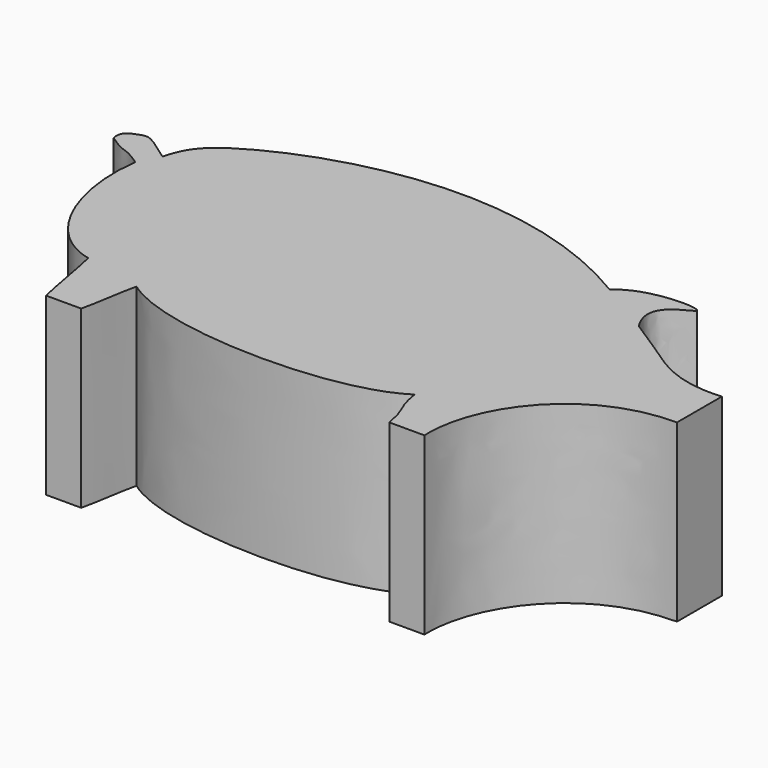
from build123d import *

# Parameters (mm, degrees)
F1_DEPTH = 25


with BuildPart() as f1:
    # F0 (on Top) → F1 (new body)
    with BuildSketch(Plane.XY):
        with BuildLine():
            add(Edge.make_bspline(
                [(14.1656817868, 27.306213975), (17.3286087811, 30.4327178746), (31.6137975279, 30.0063532795), (18.8594684005, 27.6065170765), (22.1804734319, 22.4600601941)],
                knots=[0, 0, 0, 0, 0.5479633402, 1, 1, 1, 1], degree=3))
            add(Edge.make_bspline(
                [(14.1656817868, 27.306213975), (-8.5522494737, 41.0188366673), (-39.7737865781, 30.0952229623), (-43.9671095669, 24.2991774614), (-44.7300113738, 21.2475694716)],
                knots=[0, 0, 0, 0, 0.7127719734, 1, 1, 1, 1], degree=3))
            add(Edge.make_bspline(
                [(-44.7300113738, 21.2475694716), (-48.86189571, 24.3265715696), (-49.0885533019, 24.0178126654), (-52.2380086043, 23.0147126637), (-51.7955087125, 21.3653277606)],
                knots=[0, 0, 0, 0, 0.5900294993, 1, 1, 1, 1], degree=3))
            add(Edge.make_bspline(
                [(-51.7955087125, 21.3653277606), (-48.5647395253, 19.0665111877), (-49.4916364551, 20.60242882), (-46.2608672678, 18.3036122471)],
                knots=[0, 0, 0, 0, 6.3250579291, 6.3250579291, 6.3250579291, 6.3250579291], degree=3))
            add(Edge.make_bspline(
                [(-46.2608672678, 18.3036122471), (-47.5562103093, 9.2362239957), (-43.4189804822, -1.28946384), (-35.9230783284, -3)],
                knots=[0, 0, 0, 0, 23.6793955779, 23.6793955779, 23.6793955779, 23.6793955779], degree=3))
            add(Edge.make_bspline(
                [(-33.9230783284, -13), (-34.668640544, -9.9556212891), (-35.1775161127, -6.0443787109), (-35.9230783284, -3)],
                knots=[0, 0, 0, 0, 10.1980390272, 10.1980390272, 10.1980390272, 10.1980390272], degree=3))
            Line((-33.9230783284, -13), (-28.9230783284, -13))
            add(Edge.make_bspline(
                [(-27.4230783284, -5), (-28.1065101524, -7.9201183158), (-28.2396465043, -10.0798816842), (-28.9230783284, -13)],
                knots=[0, 0, 0, 0, 8.139410298, 8.139410298, 8.139410298, 8.139410298], degree=3))
            add(Edge.make_bspline(
                [(13, -6), (4.6391610168, -11.534639582), (-19.6510312557, -10.8879149146), (-27.4230783284, -5)],
                knots=[0, 0, 0, 0, 40.4354456083, 40.4354456083, 40.4354456083, 40.4354456083], degree=3))
            add(Edge.make_bspline(
                [(15, -13), (14.2919536982, -8.9771856461), (13.6755976176, -10.1018498154), (13, -6)],
                knots=[0, 0, 0, 0, 7.2801098893, 7.2801098893, 7.2801098893, 7.2801098893], degree=3))
            Line((15, -13), (20, -13))
            add(Edge.make_bspline(
                [(40, 7), (26.9847903401, 6.9988165051), (19.5660162717, -4.1882214136), (20, -13)],
                knots=[0, 0, 0, 0, 28.2842712475, 28.2842712475, 28.2842712475, 28.2842712475], degree=3))
            Line((40, 7), (40, 15))
            add(Edge.make_bspline(
                [(22.1804734319, 22.4600601941), (27.4946360239, 19.1590298385), (30.5225928081, 16.3522606442), (36.3506581023, 14.6711683593), (40, 15)],
                knots=[0, 0, 0, 0, 0.5310169422, 1, 1, 1, 1], degree=3))
        make_face()
        with BuildLine():
            add(Edge.make_bspline(
                [(14.1656817868, 27.306213975), (17.3286087811, 30.4327178746), (31.6137975279, 30.0063532795), (18.8594684005, 27.6065170765), (22.1804734319, 22.4600601941)],
                knots=[0, 0, 0, 0, 0.5479633402, 1, 1, 1, 1], degree=3))
            add(Edge.make_bspline(
                [(14.1656817868, 27.306213975), (-8.5522494737, 41.0188366673), (-39.7737865781, 30.0952229623), (-43.9671095669, 24.2991774614), (-44.7300113738, 21.2475694716)],
                knots=[0, 0, 0, 0, 0.7127719734, 1, 1, 1, 1], degree=3))
            add(Edge.make_bspline(
                [(-44.7300113738, 21.2475694716), (-48.86189571, 24.3265715696), (-49.0885533019, 24.0178126654), (-52.2380086043, 23.0147126637), (-51.7955087125, 21.3653277606)],
                knots=[0, 0, 0, 0, 0.5900294993, 1, 1, 1, 1], degree=3))
            add(Edge.make_bspline(
                [(-51.7955087125, 21.3653277606), (-48.5647395253, 19.0665111877), (-49.4916364551, 20.60242882), (-46.2608672678, 18.3036122471)],
                knots=[0, 0, 0, 0, 6.3250579291, 6.3250579291, 6.3250579291, 6.3250579291], degree=3))
            add(Edge.make_bspline(
                [(-46.2608672678, 18.3036122471), (-47.5562103093, 9.2362239957), (-43.4189804822, -1.28946384), (-35.9230783284, -3)],
                knots=[0, 0, 0, 0, 23.6793955779, 23.6793955779, 23.6793955779, 23.6793955779], degree=3))
            add(Edge.make_bspline(
                [(-33.9230783284, -13), (-34.668640544, -9.9556212891), (-35.1775161127, -6.0443787109), (-35.9230783284, -3)],
                knots=[0, 0, 0, 0, 10.1980390272, 10.1980390272, 10.1980390272, 10.1980390272], degree=3))
            Line((-33.9230783284, -13), (-28.9230783284, -13))
            add(Edge.make_bspline(
                [(-27.4230783284, -5), (-28.1065101524, -7.9201183158), (-28.2396465043, -10.0798816842), (-28.9230783284, -13)],
                knots=[0, 0, 0, 0, 8.139410298, 8.139410298, 8.139410298, 8.139410298], degree=3))
            add(Edge.make_bspline(
                [(13, -6), (4.6391610168, -11.534639582), (-19.6510312557, -10.8879149146), (-27.4230783284, -5)],
                knots=[0, 0, 0, 0, 40.4354456083, 40.4354456083, 40.4354456083, 40.4354456083], degree=3))
            add(Edge.make_bspline(
                [(15, -13), (14.2919536982, -8.9771856461), (13.6755976176, -10.1018498154), (13, -6)],
                knots=[0, 0, 0, 0, 7.2801098893, 7.2801098893, 7.2801098893, 7.2801098893], degree=3))
            Line((15, -13), (20, -13))
            add(Edge.make_bspline(
                [(40, 7), (26.9847903401, 6.9988165051), (19.5660162717, -4.1882214136), (20, -13)],
                knots=[0, 0, 0, 0, 28.2842712475, 28.2842712475, 28.2842712475, 28.2842712475], degree=3))
            Line((40, 7), (40, 15))
            add(Edge.make_bspline(
                [(22.1804734319, 22.4600601941), (27.4946360239, 19.1590298385), (30.5225928081, 16.3522606442), (36.3506581023, 14.6711683593), (40, 15)],
                knots=[0, 0, 0, 0, 0.5310169422, 1, 1, 1, 1], degree=3))
        make_face()
    extrude(amount=F1_DEPTH)


solid = f1.part
